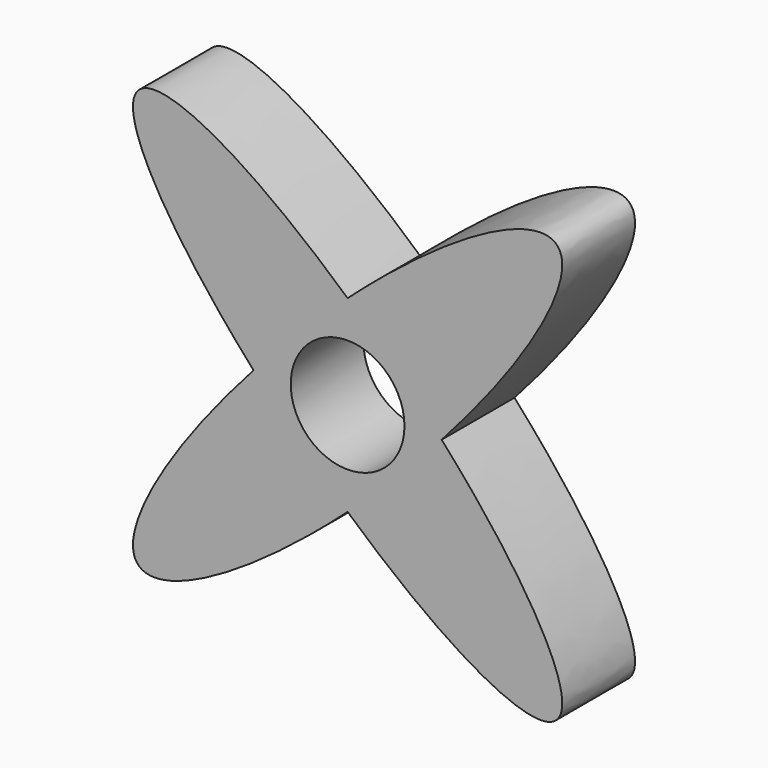
from build123d import *

# Parameters (mm, degrees)
F1_DEPTH = 20
F2_R     = 12.5
F3_DEPTH = 20


with BuildPart() as f1:
    # F0 (on Front) → F1 (new body)
    with BuildSketch(Plane.XZ):
        with BuildLine():
            add(Edge.make_bspline(
                [(20.6699586601, 0), (54.3996263023, 37.5242552519), (45.9619407771, 45.9619407771)],
                knots=[4.9391878284, 4.9391878284, 4.9391878284, 6.2831853072, 6.2831853072, 6.2831853072], degree=2, weights=[1, 0.7825789119, 1]))
            add(Edge.make_bspline(
                [(45.9619407771, 45.9619407771), (37.5242552519, 54.3996263023), (0, 20.6699586601)],
                knots=[0, 0, 0, 1.3439974787, 1.3439974787, 1.3439974787], degree=2, weights=[1, 0.7825789119, 1]))
            add(Edge.make_bspline(
                [(20.6699586601, 0), (10.8853628447, 10.8853628447), (0, 20.6699586601)],
                knots=[4.4855901323, 4.4855901323, 4.4855901323, 4.9391878284, 4.9391878284, 4.9391878284], degree=2, weights=[1, 0.9743911957, 1]))
        make_face()
        with BuildLine():
            add(Edge.make_bspline(
                [(20.6699586601, 0), (10.8853628447, 10.8853628447), (0, 20.6699586601)],
                knots=[4.4855901323, 4.4855901323, 4.4855901323, 4.9391878284, 4.9391878284, 4.9391878284], degree=2, weights=[1, 0.9743911957, 1]))
            add(Edge.make_bspline(
                [(0, 20.6699586601), (-10.8853628447, 10.8853628447), (-20.6699586601, 0)],
                knots=[1.3439974787, 1.3439974787, 1.3439974787, 1.7975951748, 1.7975951748, 1.7975951748], degree=2, weights=[1, 0.9743911957, 1]))
            add(Edge.make_bspline(
                [(-20.6699586601, 0), (-10.8853628447, -10.8853628447), (0, -20.6699586601)],
                knots=[1.3439974787, 1.3439974787, 1.3439974787, 1.7975951748, 1.7975951748, 1.7975951748], degree=2, weights=[1, 0.9743911957, 1]))
            add(Edge.make_bspline(
                [(0, -20.6699586601), (10.8853628447, -10.8853628447), (20.6699586601, 0)],
                knots=[4.4855901323, 4.4855901323, 4.4855901323, 4.9391878284, 4.9391878284, 4.9391878284], degree=2, weights=[1, 0.9743911957, 1]))
        make_face()
        with BuildLine():
            add(Edge.make_bspline(
                [(0, 20.6699586601), (-10.8853628447, 10.8853628447), (-20.6699586601, 0)],
                knots=[1.3439974787, 1.3439974787, 1.3439974787, 1.7975951748, 1.7975951748, 1.7975951748], degree=2, weights=[1, 0.9743911957, 1]))
            add(Edge.make_bspline(
                [(0, 20.6699586601), (-37.5242552519, 54.3996263023), (-45.9619407771, 45.9619407771)],
                knots=[4.9391878284, 4.9391878284, 4.9391878284, 6.2831853072, 6.2831853072, 6.2831853072], degree=2, weights=[1, 0.7825789119, 1]))
            add(Edge.make_bspline(
                [(-45.9619407771, 45.9619407771), (-54.3996263023, 37.5242552519), (-20.6699586601, 0)],
                knots=[0, 0, 0, 1.3439974787, 1.3439974787, 1.3439974787], degree=2, weights=[1, 0.7825789119, 1]))
        make_face()
        with BuildLine():
            add(Edge.make_bspline(
                [(0, -20.6699586601), (37.5242552519, -54.3996263023), (45.9619407771, -45.9619407771), (54.3996263023, -37.5242552519), (20.6699586601, 0)],
                knots=[1.7975951748, 1.7975951748, 1.7975951748, 3.1415926536, 3.1415926536, 4.4855901323, 4.4855901323, 4.4855901323], degree=2, weights=[1, 0.7825789119, 1, 0.7825789119, 1]))
            add(Edge.make_bspline(
                [(0, -20.6699586601), (10.8853628447, -10.8853628447), (20.6699586601, 0)],
                knots=[4.4855901323, 4.4855901323, 4.4855901323, 4.9391878284, 4.9391878284, 4.9391878284], degree=2, weights=[1, 0.9743911957, 1]))
        make_face()
        with BuildLine():
            add(Edge.make_bspline(
                [(-20.6699586601, 0), (-10.8853628447, -10.8853628447), (0, -20.6699586601)],
                knots=[1.3439974787, 1.3439974787, 1.3439974787, 1.7975951748, 1.7975951748, 1.7975951748], degree=2, weights=[1, 0.9743911957, 1]))
            add(Edge.make_bspline(
                [(-20.6699586601, 0), (-54.3996263023, -37.5242552519), (-45.9619407771, -45.9619407771), (-37.5242552519, -54.3996263023), (0, -20.6699586601)],
                knots=[1.7975951748, 1.7975951748, 1.7975951748, 3.1415926536, 3.1415926536, 4.4855901323, 4.4855901323, 4.4855901323], degree=2, weights=[1, 0.7825789119, 1, 0.7825789119, 1]))
        make_face()
    extrude(amount=F1_DEPTH)

    # F2 (on face) → F3 (cut)
    with BuildSketch(Plane.XZ.offset(20)):
        Circle(F2_R)
    extrude(amount=-F3_DEPTH, mode=Mode.SUBTRACT)


solid = f1.part
